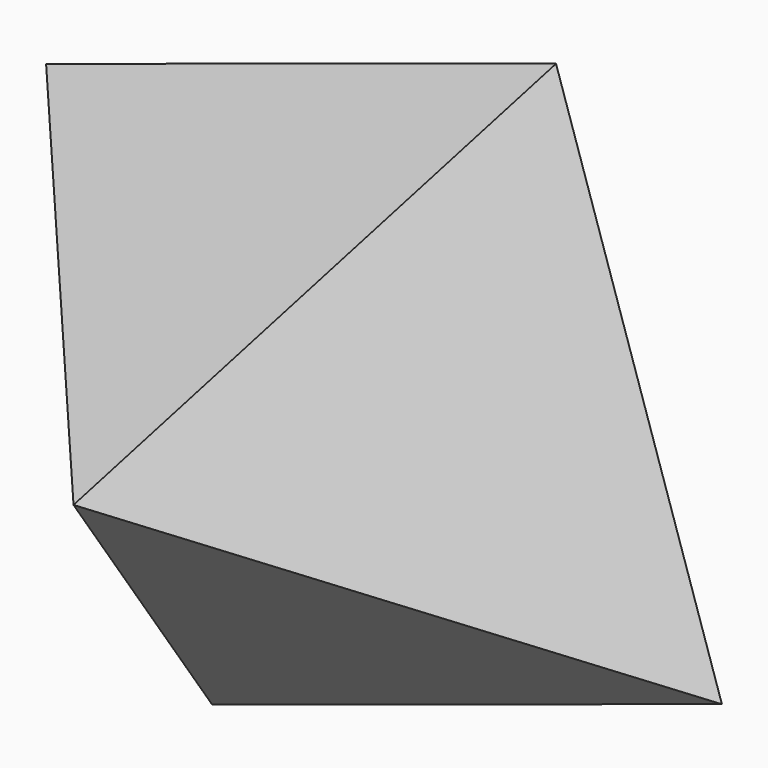
from build123d import *


with BuildPart() as f3:
    # F0 (on Front) → F3 section 0
    with BuildSketch(Plane.XZ, mode=Mode.PRIVATE) as f3_s0:
        Polygon((44.323772, 87.069675), (-87.069675, 44.323772), (-44.323772, -87.069675), (87.069675, -44.323772), align=None)
    loft([f3_s0.sketch, Vertex(0, -100, 13.216692)])


solid = f3.part
